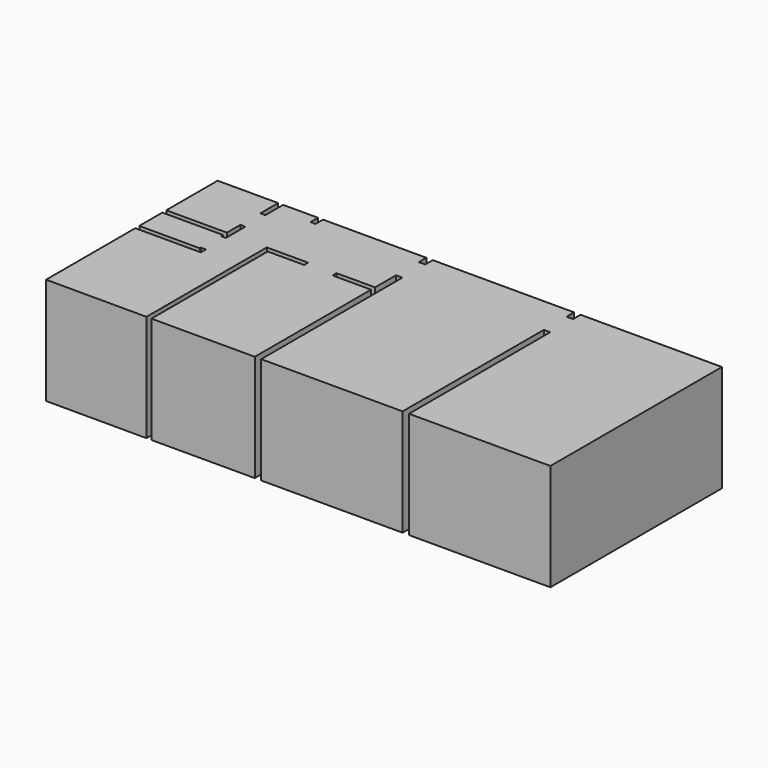
from build123d import *

# Parameters (mm, degrees)
F1_DEPTH = 3000


with BuildPart() as f1:
    # F0 (on Top) → F1 (new body)
    with BuildSketch(Plane.XY):
        Polygon((-548.506346, 3669.047837), (-548.506346, 539.047837), (2271.493654, 536.726892), (2271.493654, 4759.047837), (3432.486654, 4759.047837), (3432.486654, 4619.047837), (2411.493654, 4619.047837), (2411.493654, 536.726892), (5311.493654, 539.047837), (5311.493654, 4619.047837), (4232.486654, 4619.047837), (4232.486654, 4759.047837), (5311.493654, 4759.047837), (5311.493654, 5495.607567), (5491.493654, 5495.607567), (5491.493654, 539.047837), (9461.493654, 539.047837), (9461.493654, 5495.607567), (9641.493654, 5495.607567), (9641.493654, 539.047837), (13611.493654, 539.047837), (13611.493654, 6559.047837), (9641.493654, 6559.047837), (9641.493654, 6295.607567), (9461.493654, 6295.607567), (9461.493654, 6559.047837), (5491.493654, 6559.047837), (5491.493654, 6295.607567), (5311.493654, 6295.607567), (5311.493654, 6559.047837), (2411.493654, 6559.047837), (2411.493654, 6295.607567), (2271.493654, 6295.607567), (2271.493654, 6559.047837), (1291.493654, 6559.047837), (1291.493654, 5932.326435), (1151.493654, 5932.326435), (1151.493654, 6559.047837), (-548.506346, 6559.047837), (-548.506346, 4759.047837), (1151.493654, 4759.047837), (1151.493654, 5232.326435), (1291.493654, 5232.326435), (1291.493654, 4619.047837), (1291.493654, 4549.64323), (1151.493654, 4549.64323), (1151.493654, 4619.047837), (-548.506346, 4619.047837), (-548.506346, 3809.047837), (1151.493654, 3809.047837), (1151.493654, 3849.64323), (1291.493654, 3849.64323), (1291.493654, 3669.047837), align=None)
    extrude(amount=F1_DEPTH)


solid = f1.part
